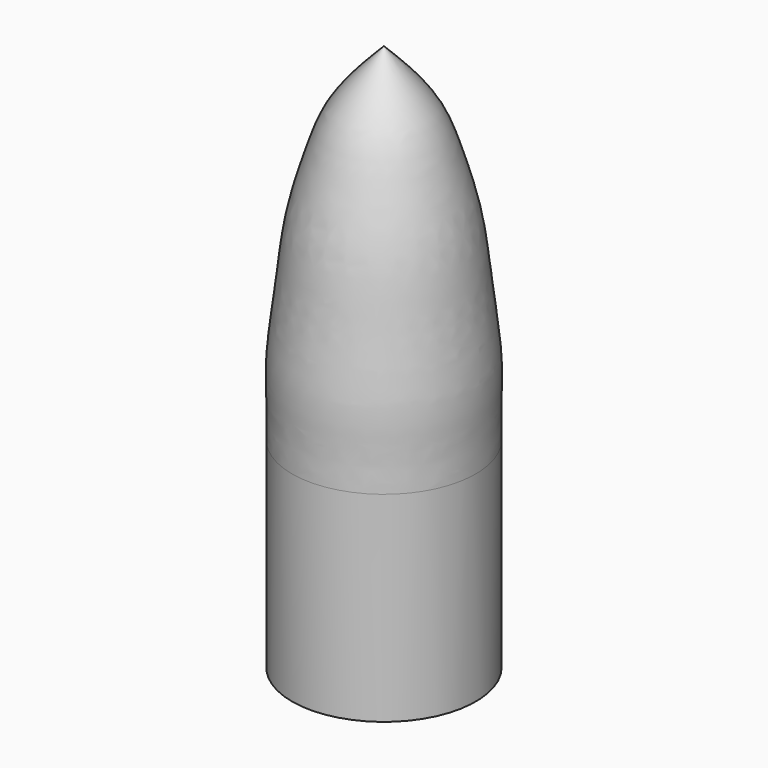
from build123d import *


with BuildPart() as f1:
    # F0 (on Front) → F1 (revolve)
    with BuildSketch(Plane.XZ):
        with BuildLine():
            Line((-10.6, 0), (-9.8, 0))
            Line((-9.8, 0), (-9.8, 23.1088660657))
            Line((-9.8, 23.1088660657), (0, 23.1088660657))
            Line((0, 23.1088660657), (0, 63.1088660657))
            add(Edge.make_bspline(
                [(-10.6, 23.1088660657), (-10.5900854957, 24.5796658931), (-10.5615671657, 27.3605801833), (-10.7702778903, 31.5944223981), (-9.7239662259, 39.0291198939), (-9.0508667522, 46.1197311609), (-7.0667940105, 52.4285092042), (-5.8325302544, 56.1123003586), (-3.5271951498, 59.4854515859), (-1.2936368173, 61.7921589865), (0, 63.1088660657)],
                knots=[0, 0, 0, 0, 0.1118714514, 0.2239012748, 0.372801192, 0.5220114851, 0.6611444278, 0.7679791684, 0.8759727138, 1, 1, 1, 1], degree=3))
            Line((-10.6, 23.1088660657), (-10.6, 0))
        make_face()
    revolve(axis=Axis((0, 0, 33.9172668755), (0, 0, 1)))


solid = f1.part
